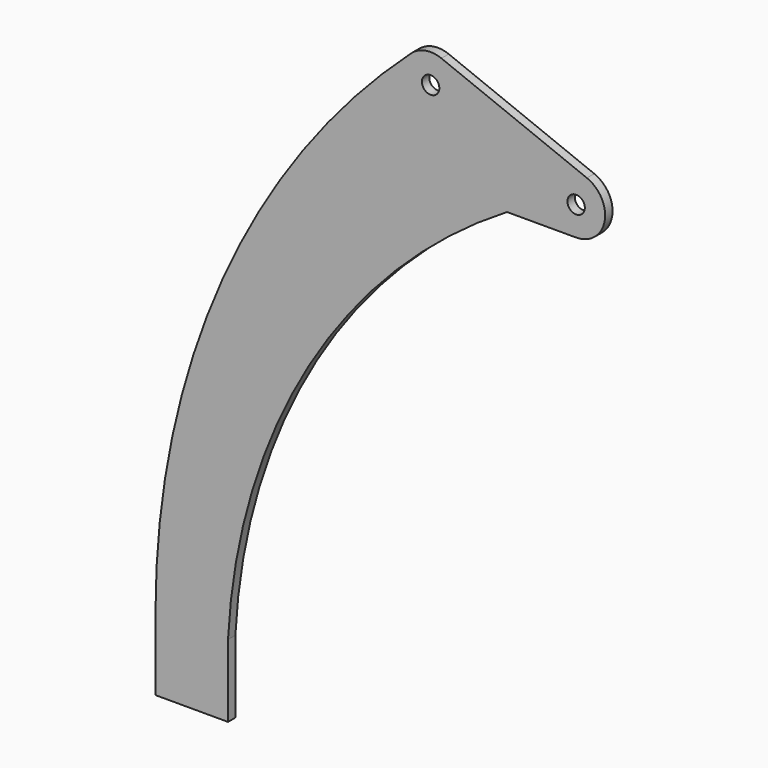
from build123d import *

# Parameters (mm, degrees)
F0_R     = 3
F1_DEPTH = 3.175


with BuildPart() as f1:
    # F0 (on Front) → F1 (new body)
    with BuildSketch(Plane.XZ):
        with BuildLine():
            Line((-23.832375, -10), (0, -10))
            ThreePointArc((0, -10), (9.820601, -1.885681), (3.703704, 9.288842))
            Line((3.703704, 9.288842), (-46.456041, 29.288842))
            ThreePointArc((-46.456041, 29.288842), (-51.927236, 29.842559), (-56.863932, 27.41983))
            ThreePointArc((-56.863932, 27.41983), (-121.97472, -62.443108), (-145, -171))
            Line((-145, -171), (-145, -196))
            Line((-145, -196), (-120, -196))
            Line((-120, -196), (-120, -171))
            ThreePointArc((-120, -171), (-91.956346, -78.529724), (-23.832375, -10))
        make_face()
        with Locations((-50.159745, 20)):
            Circle(F0_R, mode=Mode.SUBTRACT)
        Circle(F0_R, mode=Mode.SUBTRACT)
    extrude(amount=F1_DEPTH)


solid = f1.part
